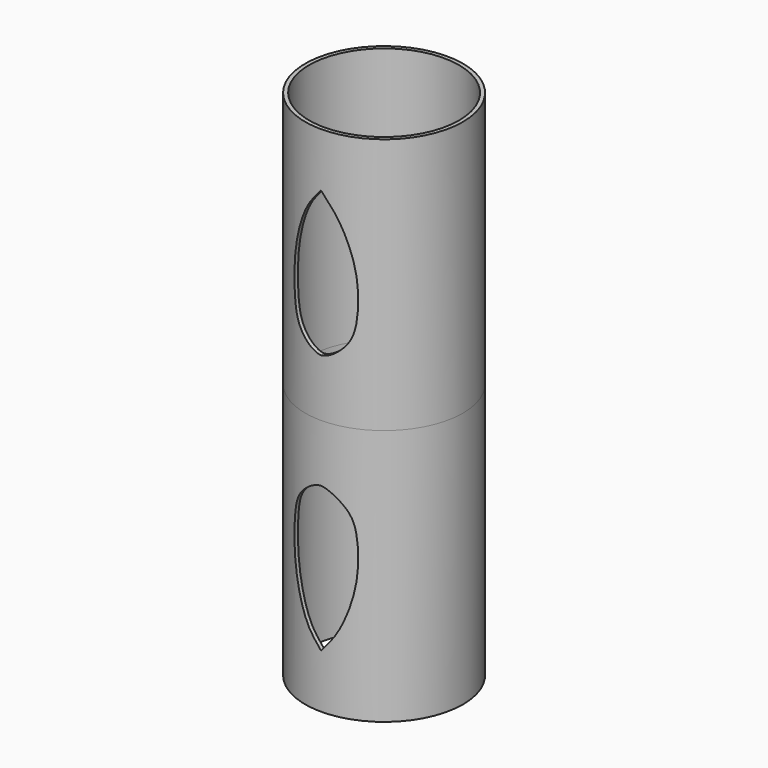
from build123d import *

# Parameters (mm, degrees)
F0_R     = 20
F0_R_2   = 19
F1_DEPTH = 65
F3_DEPTH = 41.1


with BuildPart() as f1:
    # F0 (on Top) → F1 (new body)
    with BuildSketch(Plane.XY):
        Circle(F0_R)
        Circle(F0_R_2, mode=Mode.SUBTRACT)
    extrude(amount=F1_DEPTH)

    # F2 (on Front) → F3 (cut)
    with BuildSketch(Plane.XZ):
        with BuildLine():
            add(Edge.make_bspline(
                [(0, 14.5592805974), (-1.9073922383, 14.7213677243), (-6.1064946547, 17.7360926743), (-8.1839165851, 23.2066328676), (-8.391246048, 36.0351621809), (-3.8296298891, 47.432605238), (-1.2185013376, 49.7799145352), (0, 51.348935332)],
                knots=[0, 0, 0, 0, 0.1765278414, 0.3445091773, 0.5954474838, 0.8373921793, 1, 1, 1, 1], degree=3))
            add(Edge.make_bspline(
                [(0, 14.5592805974), (1.9073922383, 14.7213677243), (6.1064946547, 17.7360926743), (8.1839165851, 23.2066328676), (8.391246048, 36.0351621809), (3.8296298891, 47.432605238), (1.2185013376, 49.7799145352), (0, 51.348935332)],
                knots=[0, 0, 0, 0, 0.1765278414, 0.3445091773, 0.5954474838, 0.8373921793, 1, 1, 1, 1], degree=3))
        make_face()
    extrude(amount=F3_DEPTH, mode=Mode.SUBTRACT)

    # F4: F1 across plane


with BuildPart() as f1_1:
    add(f1.part)
    add(f1.part.mirror(Plane.XY))


solid = f1_1.part
